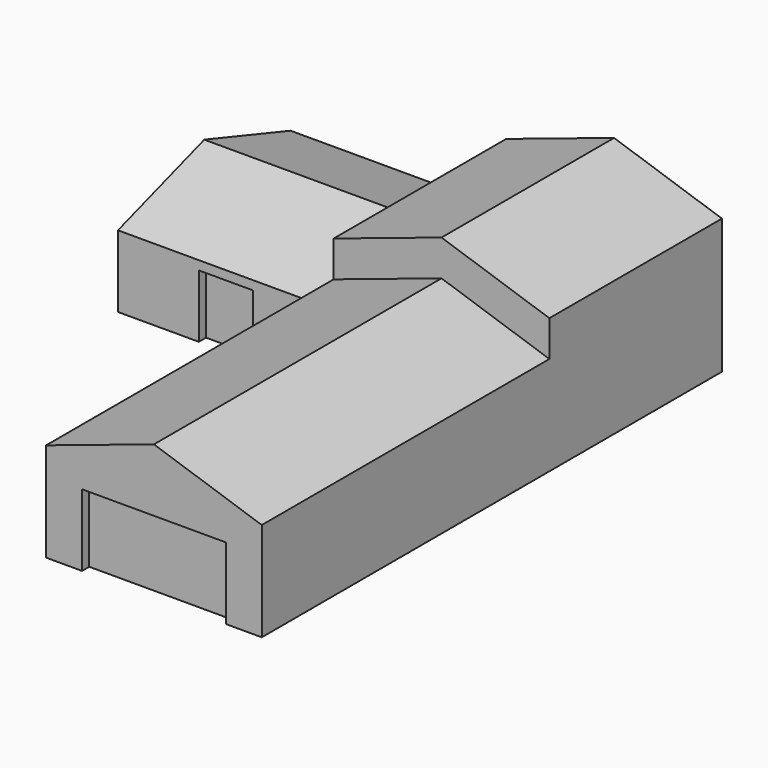
from build123d import *

# Parameters (mm, degrees)
F1_DEPTH  = 1016
F3_DEPTH  = 609.6
F5_DEPTH  = 609.6
F6_W      = 152.4
F6_H      = 177.8
F7_DEPTH  = 25.4
F8_W      = 406.4
F8_H      = 203.2
F9_DEPTH  = 25.4
F10_W     = 254
F10_H     = 203.2
F10_H_2   = 50.8
F10_W_2   = 152.4
F10_H_3   = 177.8
F11_DEPTH = 25.4
F12_W     = 76.2
F12_H     = 177.8
F13_DEPTH = 25.4


with BuildPart() as f1:
    # F0 (on Front) → F1 (new body)
    with BuildSketch(Plane.XZ):
        Polygon((-304.8, 0), (0, 0), (304.8, 0), (304.8, 279.4), (0, 381), (-304.8, 279.4), align=None)
    extrude(amount=F1_DEPTH)

    # F2 (on face) → F3 (join)
    with BuildSketch(Plane(origin=(0, 0, 0), x_dir=(-1, 0, 0), z_dir=(0, 1, 0))):
        Polygon((-304.8, 381), (-304.8, 0), (304.8, 0), (304.8, 381), (0, 482.6), align=None)
    extrude(amount=F3_DEPTH)

    # F4 (on face) → F5 (join)
    with BuildSketch(Plane(origin=(-304.8, 0, 0), x_dir=(0, -1, 0), z_dir=(-1, 0, 0))):
        Polygon((-609.6, 203.2), (-609.6, 0), (-304.8, 0), (-304.8, 304.8), align=None)
        Polygon((-304.8, 304.8), (-304.8, 0), (0, 0), (0, 203.2), align=None)
    extrude(amount=F5_DEPTH)

    # F6 (on face) → F7 (cut)
    with BuildSketch(Plane.XZ):
        with Locations((-609.6, 88.9)):
            Rectangle(F6_W, F6_H)
    extrude(amount=-F7_DEPTH, mode=Mode.SUBTRACT)

    # F8 (on face) → F9 (cut)
    with BuildSketch(Plane.XZ.offset(1016)):
        with Locations((0, 101.6)):
            Rectangle(F8_W, F8_H)
    extrude(amount=-F9_DEPTH, mode=Mode.SUBTRACT)

    # F10 (on face) → F11 (cut)
    with BuildSketch(Plane(origin=(0, 609.6, 0), x_dir=(-1, 0, 0), z_dir=(0, 1, 0))):
        with Locations((-152.4, 101.6)):
            Rectangle(F10_W, F10_H)
        with Locations((-152.4, 228.6)):
            Rectangle(F10_W, F10_H_2)
        with Locations((609.6, 88.9)):
            Rectangle(F10_W_2, F10_H_3)
    extrude(amount=-F11_DEPTH, mode=Mode.SUBTRACT)

    # F12 (on face) → F13 (cut)
    with BuildSketch(Plane(origin=(-304.8, 0, 0), x_dir=(0, -1, 0), z_dir=(-1, 0, 0))):
        with Locations((825.5, 88.9)):
            Rectangle(F12_W, F12_H)
    extrude(amount=-F13_DEPTH, mode=Mode.SUBTRACT)


solid = f1.part
